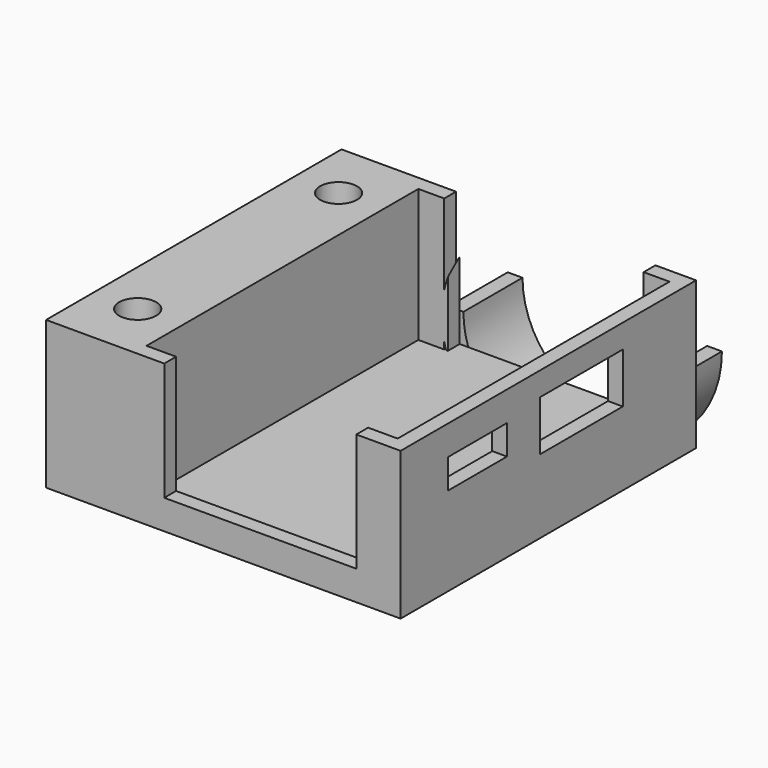
from build123d import *

# Parameters (mm, degrees)
CYLINDER003_R     = 1.25
CYLINDER003_DEPTH = 9
CYLINDER002_R     = 1.25
CYLINDER002_DEPTH = 9
BOX008_W          = 5
BOX008_H          = 25
BOX008_DEPTH      = 10
BOX009_W          = 5
BOX009_H          = 5
BOX009_DEPTH      = 2
BOX005_W          = 20
BOX005_H          = 10
BOX005_DEPTH      = 10
CYLINDER_R        = 6.25
CYLINDER_DEPTH    = 5
CYLINDER001_R     = 7.25
CYLINDER001_DEPTH = 5
BOX004_W          = 6.5
BOX004_H          = 7
BOX004_DEPTH      = 10
BOX002_W          = 13.5
BOX002_H          = 10
BOX002_DEPTH      = 12
BOX003_W          = 13
BOX003_H          = 13
BOX003_DEPTH      = 12
BOX_W             = 17
BOX_H             = 23
BOX_DEPTH         = 12
BOX001_W          = 19
BOX001_H          = 25
BOX001_DEPTH      = 10
BOX007_W          = 13
BOX007_H          = 10
BOX007_DEPTH      = 10
BOX006_W          = 15
BOX006_H          = 10
BOX006_DEPTH      = 10
BOX010_W          = 1
BOX010_H          = 10
BOX010_DEPTH      = 1.6


with BuildPart() as cylinder003:
    # Cylinder003 → Cylinder003 (new body)
    with BuildSketch(Plane(origin=(-2, 20, 1), x_dir=(1, 0, 0), z_dir=(0, 0, 1))):
        Circle(CYLINDER003_R)
    extrude(amount=CYLINDER003_DEPTH)


with BuildPart() as cylinder002:
    # Cylinder002 → Cylinder002 (new body)
    with BuildSketch(Plane(origin=(-2, 3, 1), x_dir=(1, 0, 0), z_dir=(0, 0, 1))):
        Circle(CYLINDER002_R)
    extrude(amount=CYLINDER002_DEPTH)


with BuildPart() as cube008:
    # Box008 → Box008 (new body)
    with BuildSketch(Plane(origin=(-5, -1, 0), x_dir=(1, 0, 0), z_dir=(0, 0, 1))):
        with Locations((2.5, 12.5)):
            Rectangle(BOX008_W, BOX008_H)
    extrude(amount=BOX008_DEPTH)


with BuildPart() as cube009:
    # Box009 → Box009 (new body)
    with BuildSketch(Plane(origin=(15, 3, 6), x_dir=(1, 0, 0), z_dir=(0, 0, 1))):
        with Locations((2.5, 2.5)):
            Rectangle(BOX009_W, BOX009_H)
    extrude(amount=BOX009_DEPTH)


with BuildPart() as cube005:
    # Box005 → Box005 (new body)
    with BuildSketch(Plane(origin=(0, 24, 3), x_dir=(1, 0, 0), z_dir=(0, 0, 1))):
        with Locations((10, 5)):
            Rectangle(BOX005_W, BOX005_H)
    extrude(amount=BOX005_DEPTH)


with BuildPart() as cylinder:
    # Cylinder → Cylinder (new body)
    with BuildSketch(Plane(origin=(9.5, 29, 3), x_dir=(1, 0, 0), z_dir=(0, -1, 0))):
        Circle(CYLINDER_R)
    extrude(amount=CYLINDER_DEPTH)


with BuildPart() as cut005:
    # Cylinder001 → Cylinder001 (new body)
    with BuildSketch(Plane(origin=(9.5, 29, 3), x_dir=(1, 0, 0), z_dir=(0, -1, 0))):
        Circle(CYLINDER001_R)
    extrude(amount=CYLINDER001_DEPTH)

    # Cut004: cut Cylinder
    add(cylinder.part, mode=Mode.SUBTRACT)

    # Cut005: cut Cube005
    add(cube005.part, mode=Mode.SUBTRACT)


with BuildPart() as cube004:
    # Box004 → Box004 (new body)
    with BuildSketch(Plane(origin=(15, 10.8, 5), x_dir=(1, 0, 0), z_dir=(0, 0, 1))):
        with Locations((3.25, 3.5)):
            Rectangle(BOX004_W, BOX004_H)
    extrude(amount=BOX004_DEPTH)


with BuildPart() as cube002:
    # Box002 → Box002 (new body)
    with BuildSketch(Plane(origin=(2.75, 15, 1), x_dir=(1, 0, 0), z_dir=(0, 0, 1))):
        with Locations((6.75, 5)):
            Rectangle(BOX002_W, BOX002_H)
    extrude(amount=BOX002_DEPTH)


with BuildPart() as cube003:
    # Box003 → Box003 (new body)
    with BuildSketch(Plane(origin=(3, -1, 2), x_dir=(1, 0, 0), z_dir=(0, 0, 1))):
        with Locations((6.5, 6.5)):
            Rectangle(BOX003_W, BOX003_H)
    extrude(amount=BOX003_DEPTH)


with BuildPart() as cube:
    # Box → Box (new body)
    with BuildSketch(Plane(origin=(1, 0, 1), x_dir=(1, 0, 0), z_dir=(0, 0, 1))):
        with Locations((8.5, 11.5)):
            Rectangle(BOX_W, BOX_H)
    extrude(amount=BOX_DEPTH)


with BuildPart() as fusion:
    # Box001 → Box001 (new body)
    with BuildSketch(Plane(origin=(0, -1, 0), x_dir=(1, 0, 0), z_dir=(0, 0, 1))):
        with Locations((9.5, 12.5)):
            Rectangle(BOX001_W, BOX001_H)
    extrude(amount=BOX001_DEPTH)

    # Cut: cut Cube
    add(cube.part, mode=Mode.SUBTRACT)

    # Cut001: cut Cube003
    add(cube003.part, mode=Mode.SUBTRACT)

    # Cut002: cut Cube002
    add(cube002.part, mode=Mode.SUBTRACT)

    # Cut003: cut Cube004
    add(cube004.part, mode=Mode.SUBTRACT)

    # Fusion: union Cut005
    add(cut005.part)


with BuildPart() as cube007:
    # Box007 → Box007 (new body)
    with BuildSketch(Plane(origin=(3, 14, 1), x_dir=(1, 0, 0), z_dir=(0, 0, 1))):
        with Locations((6.5, 5)):
            Rectangle(BOX007_W, BOX007_H)
    extrude(amount=BOX007_DEPTH)


with BuildPart() as cube006:
    # Box006 → Box006 (new body)
    with BuildSketch(Plane(origin=(2, 13, 1), x_dir=(1, 0, 0), z_dir=(0, 0, 1))):
        with Locations((7.5, 5)):
            Rectangle(BOX006_W, BOX006_H)
    extrude(amount=BOX006_DEPTH)


with BuildPart() as cut010:
    # Cone → Cone (revolve)
    with BuildSketch(Plane(origin=(9.5, 14, 3), x_dir=(1, 0, 0), z_dir=(0, 0, 1))):
        Polygon((0, 0), (4, 0), (7.25, 10), (0, 10), align=None)
    revolve(axis=Axis((9.5, 14, 3), (0, 1, 0)))

    # Cut006: cut Cube006
    add(cube006.part, mode=Mode.SUBTRACT)

    # Cut007: cut Cube007
    add(cube007.part, mode=Mode.SUBTRACT)

    # Fusion001: union Fusion
    add(fusion.part)

    # Cut008: cut Cube009
    add(cube009.part, mode=Mode.SUBTRACT)

    # Fusion002: union Cube008
    add(cube008.part)

    # Cut009: cut Cylinder002
    add(cylinder002.part, mode=Mode.SUBTRACT)

    # Cut010: cut Cylinder003
    add(cylinder003.part, mode=Mode.SUBTRACT)


with BuildPart() as fusion003:
    # Box010 → Box010 (new body)
    with BuildSketch(Plane(origin=(18, 10, 8.4), x_dir=(1, 0, 0), z_dir=(0, 0, 1))):
        with Locations((0.5, 5)):
            Rectangle(BOX010_W, BOX010_H)
    extrude(amount=BOX010_DEPTH)

    # Fusion003: union Cut010
    add(cut010.part)


solid = fusion003.part
